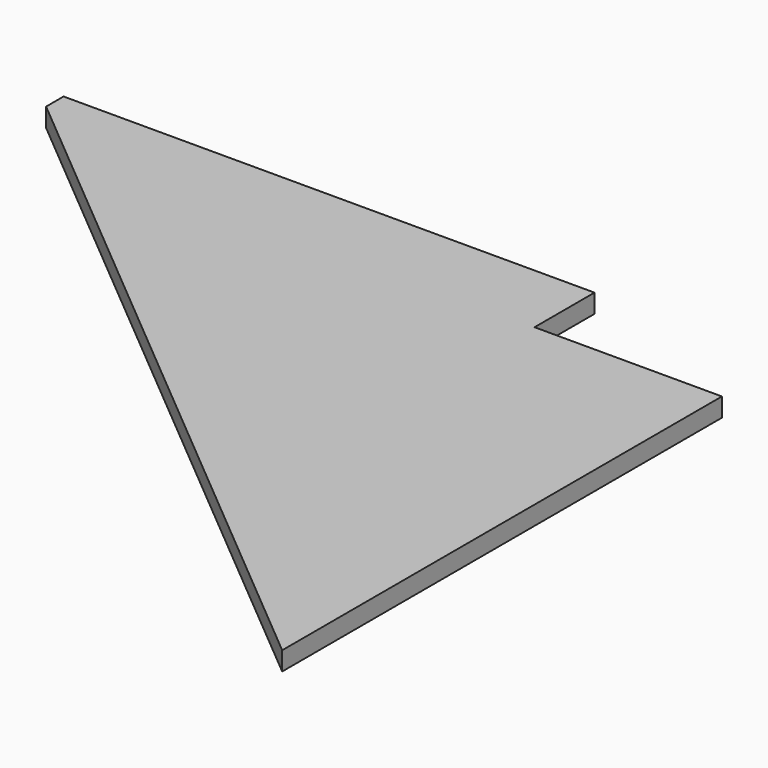
from build123d import *

# Parameters (mm, degrees)
F1_DEPTH = 300
F2_W     = 3000
F2_H     = 1200
F3_DEPTH = 300.001


with BuildPart() as f1:
    # F0 (on Top) → F1 (new body)
    with BuildSketch(Plane.XY):
        Polygon((0, 350.354241), (0, 0), (11500, -9649.645759), (11500, 350.354241), align=None)
    extrude(amount=F1_DEPTH)

    # F2 (on face) → F3 (cut, through all)
    with BuildSketch(Plane.XY.offset(300)):
        with Locations((10000, -249.645759)):
            Rectangle(F2_W, F2_H)
    extrude(amount=-F3_DEPTH, mode=Mode.SUBTRACT)


solid = f1.part
